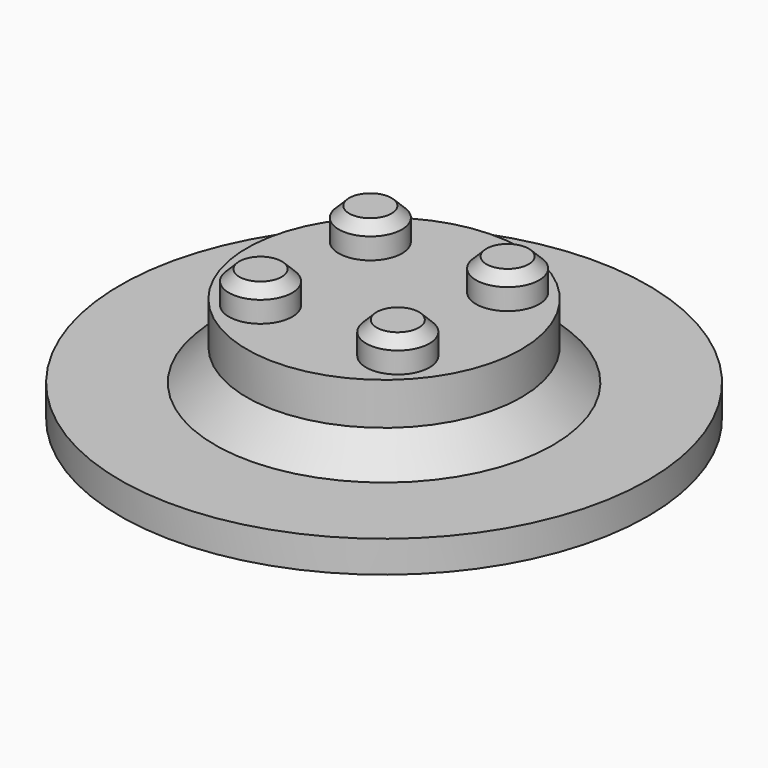
from build123d import *

# Parameters (mm, degrees)
SKETCH_R        = 13
PAD_DEPTH       = 7
SKETCH001_R     = 3
PAD001_DEPTH    = 3
CHAMFER_SIZE    = 1
SKETCH002_R     = 25
PAD002_DEPTH    = 3
CHAMFER001_SIZE = 3


with BuildPart() as part:
    # Sketch → Pad (new body)
    with BuildSketch(Plane.XY):
        Circle(SKETCH_R)
    extrude(amount=PAD_DEPTH)

    # Sketch001 (on Face3 of Pad) → Pad001 (join)
    with BuildSketch(Plane.XY.offset(7)):
        with Locations((-6.5, 6.5)):
            Circle(SKETCH001_R)
        with Locations((-6.5, -6.5)):
            Circle(SKETCH001_R)
        with Locations((6.5, -6.5)):
            Circle(SKETCH001_R)
        with Locations((6.5, 6.5)):
            Circle(SKETCH001_R)
    extrude(amount=PAD001_DEPTH)

    # Chamfer
    chamfer_edges = [part.edges().sort_by_distance(p)[0] for p in [
        (-9.5, -6.5, 10),
        (3.5, -6.5, 10),
        (-9.5, 6.5, 10),
        (3.5, 6.5, 10),
    ]]
    chamfer(chamfer_edges, length=CHAMFER_SIZE)

    # Sketch002 (on Face9 of Chamfer) → Pad002 (join)
    with BuildSketch(Plane(origin=(0, 0, 0), x_dir=(1, 0, 0), z_dir=(0, 0, -1))):
        Circle(SKETCH002_R)
    extrude(amount=PAD002_DEPTH)

    # Chamfer001
    chamfer001_edges = [part.edges().sort_by_distance(p)[0] for p in [
        (-13, 0, 0),
    ]]
    chamfer(chamfer001_edges, length=CHAMFER001_SIZE)


solid = part.part
